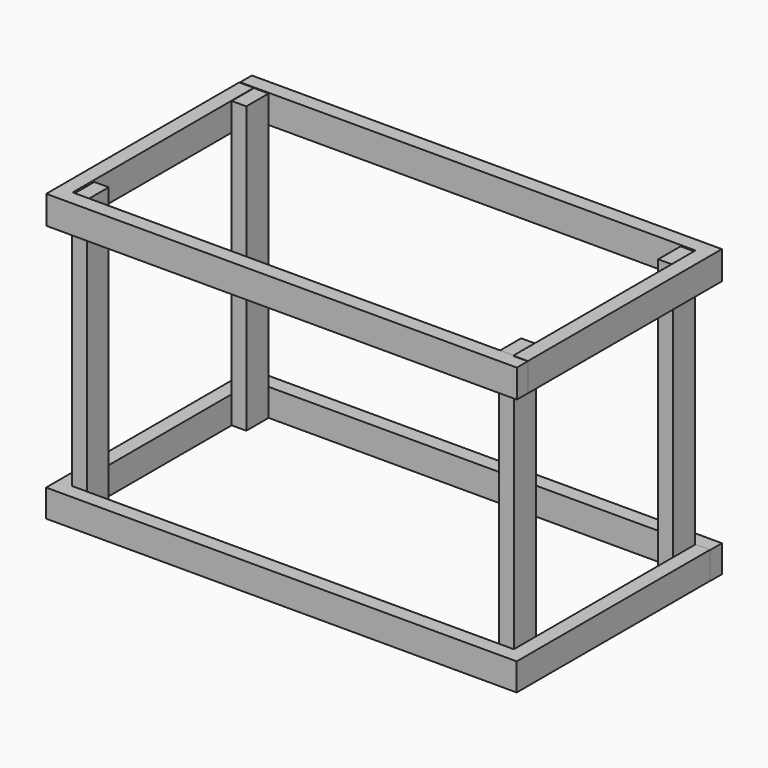
from build123d import *

# Parameters (mm, degrees)
F0_W      = 18.0097855628
F0_H      = 33.7471626699
F1_DEPTH  = 350.012
F2_W      = 17.9832
F2_H      = 279.7042541206
F3_DEPTH  = 33.782
F4_W      = 579.9328
F4_H      = 33.782
F5_DEPTH  = 18.034
F6_W      = 17.9832
F6_H      = 33.782
F7_DEPTH  = 279.908
F8_W      = 580.1614
F8_H      = 33.6901992559
F9_DEPTH  = 18.034
F10_W     = 34.3154
F10_H     = 351.8910109997
F11_DEPTH = 18.034
F12_W     = 33.8344089687
F12_H     = 351.4855802059
F13_DEPTH = 18.034
F14_W     = 34.417
F14_H     = 351.3836
F15_DEPTH = 18.034
F16_W     = 280.7166390121
F16_H     = 34.9791944027
F17_DEPTH = 18.034
F18_W     = 279.0465280414
F18_H     = 34.7275435925
F19_DEPTH = 18.034
F20_W     = 579.12
F20_H     = 34.9791944027
F21_DEPTH = 18.034
F22_W     = 579.882
F22_H     = 34.7275435925
F23_DEPTH = 18.034


with BuildPart() as f1:
    # F0 (on Top) → F1 (new body)
    with BuildSketch(Plane.XY):
        with Locations((-9.0048927814, -16.8735813349)):
            Rectangle(F0_W, F0_H)
    extrude(amount=F1_DEPTH)

    # F2 (on Top) → F3 (join)
    with BuildSketch(Plane.XY):
        with Locations((-26.6942894229, 106.0177180916)):
            Rectangle(F2_W, F2_H)
    extrude(amount=F3_DEPTH)

    # F4 (on face) → F5 (join)
    with BuildSketch(Plane.XZ.offset(33.8344089687)):
        with Locations((254.2805105771, 16.891)):
            Rectangle(F4_W, F4_H)
    extrude(amount=F5_DEPTH)

    # F6 (on face) → F7 (join)
    with BuildSketch(Plane(origin=(0, -33.8344089687, 0), x_dir=(-1, 0, 0), z_dir=(0, 1, 0))):
        with Locations((-535.2553105771, 16.891)):
            Rectangle(F6_W, F6_H)
    extrude(amount=F7_DEPTH)

    # F8 (on face) → F9 (join)
    with BuildSketch(Plane(origin=(0, 245.8698451519, 0), x_dir=(-1, 0, 0), z_dir=(0, 1, 0))):
        with Locations((-254.3948105771, 16.845099628)):
            Rectangle(F8_W, F8_H)
    extrude(amount=F9_DEPTH)

    # F10 (on face) → F11 (join)
    with BuildSketch(Plane.YZ.offset(-17.7026894229)):
        with Locations((228.7121451519, 175.9455054998)):
            Rectangle(F10_W, F10_H)
    extrude(amount=F11_DEPTH)

    # F12 (on face) → F13 (join)
    with BuildSketch(Plane(origin=(526.2637105771, 0, 0), x_dir=(0, -1, 0), z_dir=(-1, 0, 0))):
        with Locations((16.9172044843, 175.742790103)):
            Rectangle(F12_W, F12_H)
    extrude(amount=F13_DEPTH)

    # F14 (on face) → F15 (join)
    with BuildSketch(Plane(origin=(526.2637105771, 0, 0), x_dir=(0, -1, 0), z_dir=(-1, 0, 0))):
        with Locations((-228.2942401447, 175.6918)):
            Rectangle(F14_W, F14_H)
    extrude(amount=F15_DEPTH)

    # F16 (on face) → F17 (join)
    with BuildSketch(Plane(origin=(526.2637105771, 0, 0), x_dir=(0, -1, 0), z_dir=(-1, 0, 0))):
        with Locations((-105.6323889643, 335.1304978132)):
            Rectangle(F16_W, F16_H)
    extrude(amount=-F17_DEPTH)

    # F18 (on face) → F19 (join)
    with BuildSketch(Plane.YZ.offset(-17.7026894229)):
        with Locations((106.0337163508, 334.9141031504)):
            Rectangle(F18_W, F18_H)
    extrude(amount=-F19_DEPTH)

    # F20 (on face) → F21 (join)
    with BuildSketch(Plane(origin=(0, 245.9907084703, 0), x_dir=(-1, 0, 0), z_dir=(0, 1, 0))):
        with Locations((-254.7377105771, 335.1304978132)):
            Rectangle(F20_W, F20_H)
    extrude(amount=F21_DEPTH)

    # F22 (on face) → F23 (join)
    with BuildSketch(Plane.XZ.offset(33.4895476699)):
        with Locations((254.2043105771, 334.9141031504)):
            Rectangle(F22_W, F22_H)
    extrude(amount=F23_DEPTH)


solid = f1.part
